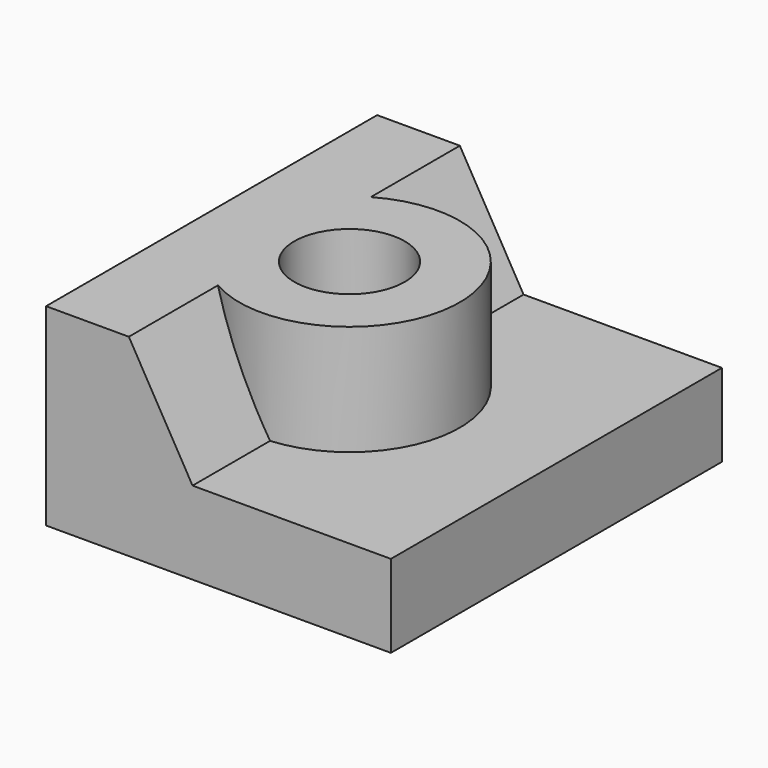
from build123d import *

# Parameters (mm, degrees)
F1_DEPTH = 150
F2_R     = 40
F3_DEPTH = 40
F4_R     = 20
F5_DEPTH = 70.001


with BuildPart() as f1:
    # F0 (on Front) → F1 (new body)
    with BuildSketch(Plane.XZ):
        Polygon((0, 70), (0, 0), (125, 0), (125, 30), (53.094011, 30), (30, 70), align=None)
    extrude(amount=-F1_DEPTH)

    # F2 (on face) → F3 (join, through all)
    with BuildSketch(Plane.XY.offset(70)):
        with Locations((50, 75)):
            Circle(F2_R)
    extrude(amount=-F3_DEPTH)

    # F4 (on face) → F5 (cut, through all)
    with BuildSketch(Plane.XY.offset(70)):
        with Locations((50, 75)):
            Circle(F4_R)
    extrude(amount=-F5_DEPTH, mode=Mode.SUBTRACT)


solid = f1.part
